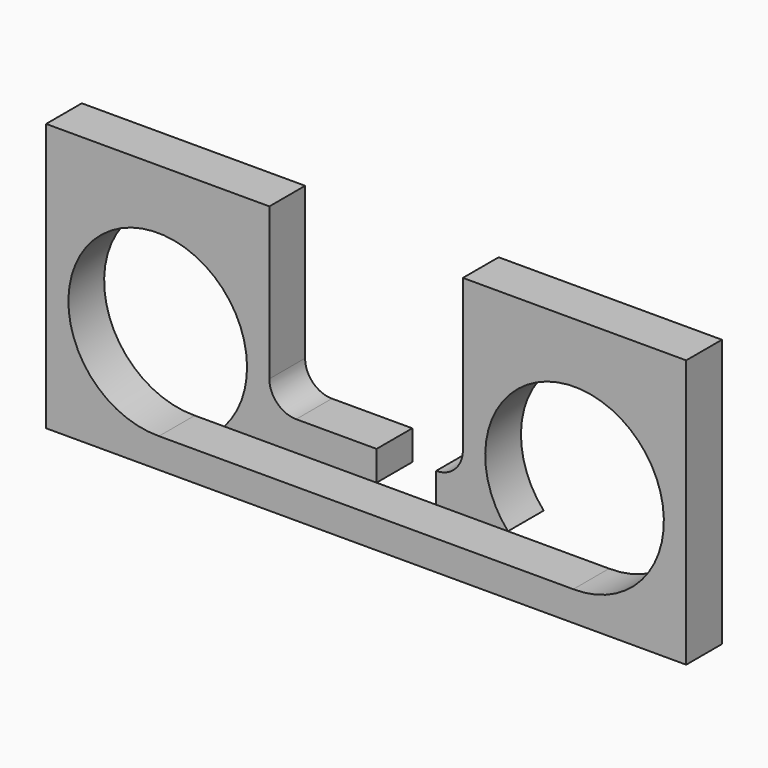
from build123d import *

# Parameters (mm, degrees)
F0_W     = 273.05
F0_H     = 114.3
F1_DEPTH = 19.05
F2_R     = 38.1
F3_DEPTH = 25.4
F5_DEPTH = 25.4
F7_DEPTH = 25.4


with BuildPart() as f1:
    # F0 (on Front) → F1 (new body)
    with BuildSketch(Plane.XZ):
        with Locations((136.525, 57.15)):
            Rectangle(F0_W, F0_H)
    extrude(amount=F1_DEPTH)

    # F2 (on face) → F3 (cut)
    with BuildSketch(Plane.XZ.offset(19.05)):
        with Locations((47.625, 50.8)):
            Circle(F2_R)
        with Locations((225.425, 50.8)):
            Circle(F2_R)
    extrude(amount=-F3_DEPTH, mode=Mode.SUBTRACT)

    # F4 (on face) → F5 (cut)
    with BuildSketch(Plane.XZ.offset(19.05)):
        with BuildLine():
            Line((177.8, 114.3), (95.25, 114.3))
            Line((95.25, 114.3), (95.25, 49.53))
            ThreePointArc((95.25, 49.53), (98.597769, 41.447769), (106.68, 38.1))
            Line((106.68, 38.1), (166.37, 38.1))
            ThreePointArc((166.37, 38.1), (174.452231, 41.447769), (177.8, 49.53))
            Line((177.8, 49.53), (177.8, 114.3))
        make_face()
    extrude(amount=-F5_DEPTH, mode=Mode.SUBTRACT)

    # F6 (on face) → F7 (cut)
    with BuildSketch(Plane.XZ.offset(19.05)):
        Polygon((166.37, 25.403647), (166.37, 38.1), (140.97, 38.1), (140.97, 25.403647), (76.026325, 25.403647), (47.097856, 12.703647), (225.952144, 12.703647), (197.023675, 25.403647), align=None)
    extrude(amount=-F7_DEPTH, mode=Mode.SUBTRACT)


solid = f1.part
